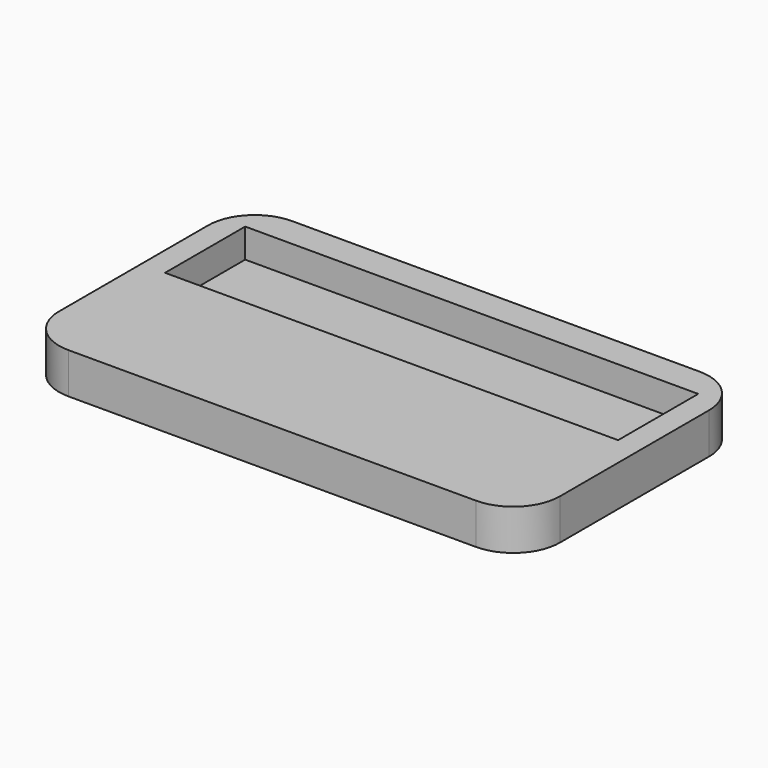
from build123d import *

# Parameters (mm, degrees)
F1_DEPTH = 3.5
F2_W     = 38.9
F2_H     = 8.6
F3_DEPTH = 2.5


with BuildPart() as f1:
    # F0 (on Top) → F1 (new body)
    with BuildSketch(Plane.XY):
        with BuildLine():
            Line((-17.5, -12), (17.5, -12))
            ThreePointArc((17.5, -12), (20.328427, -10.828427), (21.5, -8))
            Line((21.5, -8), (21.5, 8))
            ThreePointArc((21.5, 8), (20.328427, 10.828427), (17.5, 12))
            Line((17.5, 12), (-17.5, 12))
            ThreePointArc((-17.5, 12), (-20.328427, 10.828427), (-21.5, 8))
            Line((-21.5, 8), (-21.5, -8))
            ThreePointArc((-21.5, -8), (-20.328427, -10.828427), (-17.5, -12))
        make_face()
    extrude(amount=F1_DEPTH)

    # F2 (on face) → F3 (cut)
    with BuildSketch(Plane.XY.offset(3.5)):
        with Locations((0, 5.113459)):
            Rectangle(F2_W, F2_H)
    extrude(amount=-F3_DEPTH, mode=Mode.SUBTRACT)


solid = f1.part
